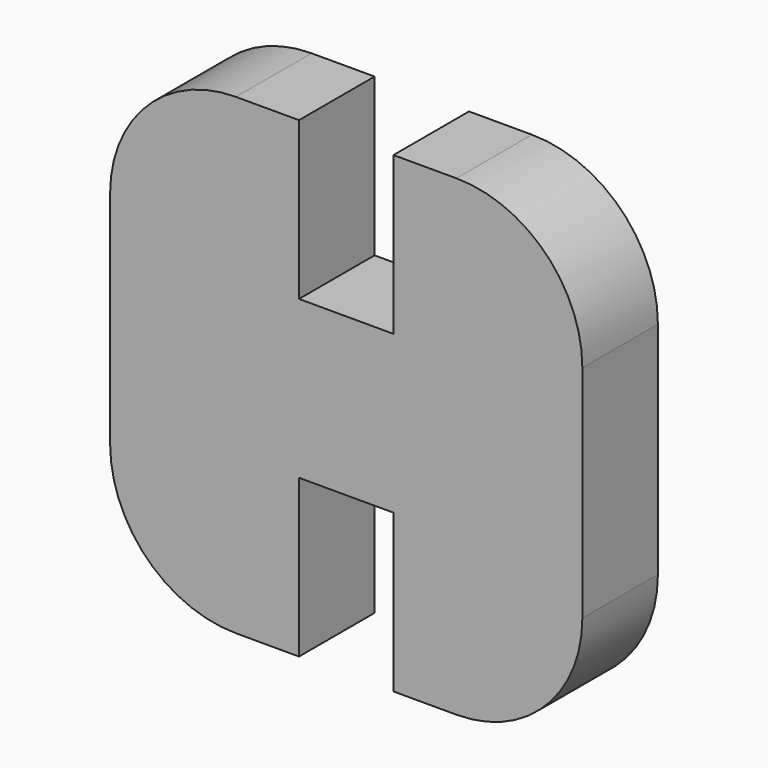
from build123d import *

# Parameters (mm, degrees)
F1_DEPTH = 3
F2_R     = 4


with BuildPart() as f1:
    # F0 (on Front) → F1 (new body)
    with BuildSketch(Plane.XZ):
        Polygon((-6.758277, 25.700304), (-6.758277, 10.700304), (-0.758277, 10.700304), (-0.758277, 15.700304), (2.241723, 15.700304), (2.241723, 10.700304), (8.241723, 10.700304), (8.241723, 25.700304), (2.241723, 25.700304), (2.241723, 20.700304), (-0.758277, 20.700304), (-0.758277, 25.700304), align=None)
    extrude(amount=F1_DEPTH)

    # F2
    f2_edges = [f1.edges().sort_by_distance(p)[0] for p in [
        (8.241723, -1.5, 25.700304),
        (-6.758277, -1.5, 10.700304),
        (-6.758277, -1.5, 25.700304),
        (8.241723, -1.5, 10.700304),
    ]]
    fillet(f2_edges, radius=F2_R)


solid = f1.part
